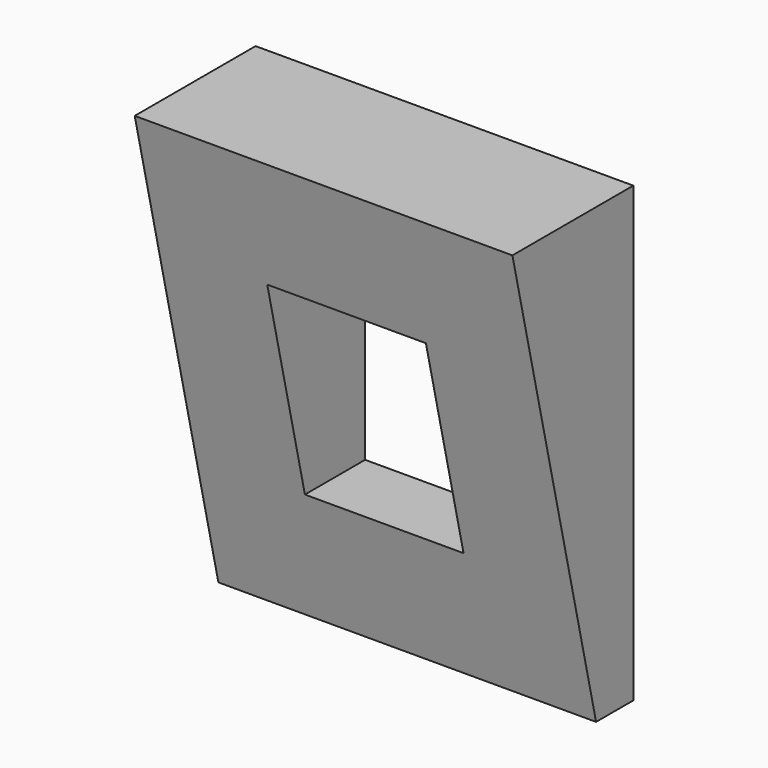
from build123d import *

# Parameters (mm, degrees)
F0_W     = 250
F0_H     = 300
F0_W_2   = 105
F0_H_2   = 135
F1_DEPTH = 100
F3_DEPTH = 297


with BuildPart() as f1:
    # F0 (on Front) → F1 (new body)
    with BuildSketch(Plane.XZ):
        with Locations((62.479706, 83.388156)):
            Rectangle(F0_W, F0_H)
        with Locations((62.479706, 83.388156)):
            Rectangle(F0_W_2, F0_H_2, mode=Mode.SUBTRACT)
    extrude(amount=F1_DEPTH)

    # F2 (on face) → F3 (cut)
    with BuildSketch(Plane.YZ.offset(187.479706)):
        Polygon((-30.774537, -66.611844), (-100, 233.388156), (-100, -66.611844), align=None)
    extrude(amount=-F3_DEPTH, mode=Mode.SUBTRACT)


solid = f1.part
